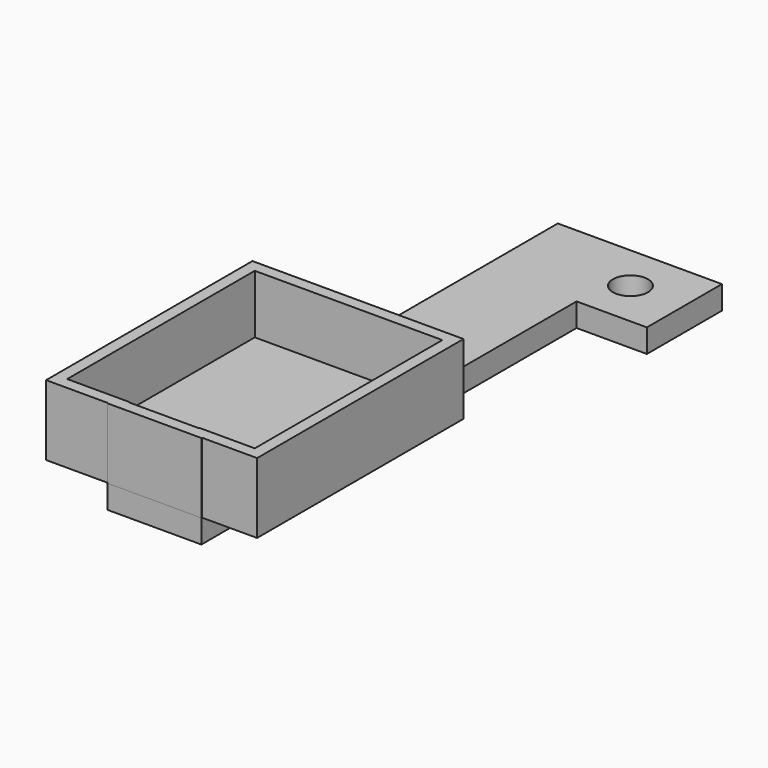
from build123d import *

# Parameters (mm, degrees)
F1_DEPTH = 2.5
F2_W     = 20
F2_H     = 0.1460519966
F2_W_2   = 11.762814112
F2_H_2   = 55
F2_W_3   = 13.237185888
F3_DEPTH = 15
F4_T     = -2.5
F5_R     = 3.75
F6_DEPTH = 5


with BuildPart() as f1:
    # F0 (on Top) → F1 (new body, symmetric)
    with BuildSketch(Plane.XY):
        Polygon((-34.8094058409, 85.1708357993), (-34.8094058409, -1.6712700429), (-34.8094058409, -34.8291642007), (-14.8094058409, -34.8291642007), (-14.8094058409, 65.1708357993), (0.1905941591, 65.1708357993), (0.1905941591, 85.1708357993), align=None)
    extrude(amount=F1_DEPTH, both=True)

    # F5 (on Top) → F6 (cut, symmetric)
    with BuildSketch(Plane.XY):
        with Locations((-11.3229686394, 75.1879066229)):
            Circle(F5_R)
    extrude(amount=F6_DEPTH, both=True, mode=Mode.SUBTRACT)


with BuildPart() as f3:
    # F2 (on face) → F3 (new body)
    with BuildSketch(Plane.XY.offset(2.5)):
        with Locations((-24.8094058409, -34.7561382024)):
            Rectangle(F2_W, F2_H)
        with Locations((-8.9279987849, -7.1831122041)):
            Rectangle(F2_W_2, F2_H_2)
        with Locations((-24.8094058409, -7.1831122041)):
            Rectangle(F2_W, F2_H_2)
        with Locations((-41.4279987849, -7.1831122041)):
            Rectangle(F2_W_3, F2_H_2)
    extrude(amount=F3_DEPTH)

    # F4
    f4_openings = [f3.faces().sort_by_distance(p)[0] for p in [
        (-25.545723, -7.215616, 17.5),
    ]]
    offset(amount=F4_T, openings=f4_openings, kind=Kind.INTERSECTION)


solid = Compound([f1.part, f3.part])
